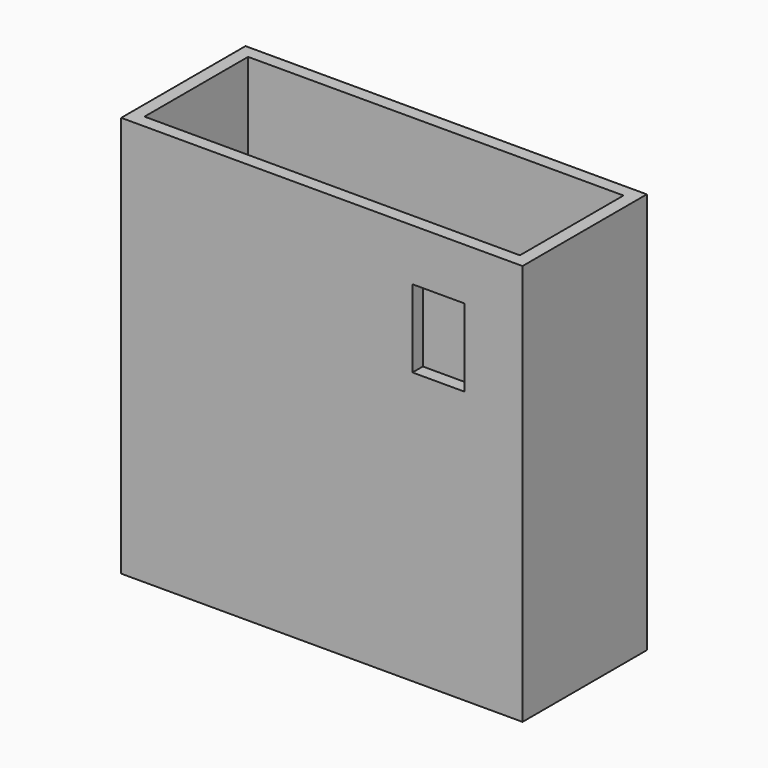
from build123d import *

# Parameters (mm, degrees)
SKETCH_W        = 62
SKETCH_H        = 24
PAD_DEPTH       = 62
SKETCH001_W     = 58
SKETCH001_H     = 20
POCKET_DEPTH    = 60
SKETCH002_W     = 8
SKETCH002_H     = 12
POCKET001_DEPTH = 2


with BuildPart() as part:
    # Sketch → Pad (new body)
    with BuildSketch(Plane.XY):
        with Locations((31, 12)):
            Rectangle(SKETCH_W, SKETCH_H)
    extrude(amount=PAD_DEPTH)

    # Sketch001 (on Face6 of Pad) → Pocket (cut)
    with BuildSketch(Plane.XY.offset(62)):
        with Locations((31, 12)):
            Rectangle(SKETCH001_W, SKETCH001_H)
    extrude(amount=-POCKET_DEPTH, mode=Mode.SUBTRACT)

    # Sketch002 (on Face1 of Pocket) → Pocket001 (cut)
    with BuildSketch(Plane.XZ):
        with Locations((49, 48)):
            Rectangle(SKETCH002_W, SKETCH002_H)
    extrude(amount=-POCKET001_DEPTH, mode=Mode.SUBTRACT)


solid = part.part
